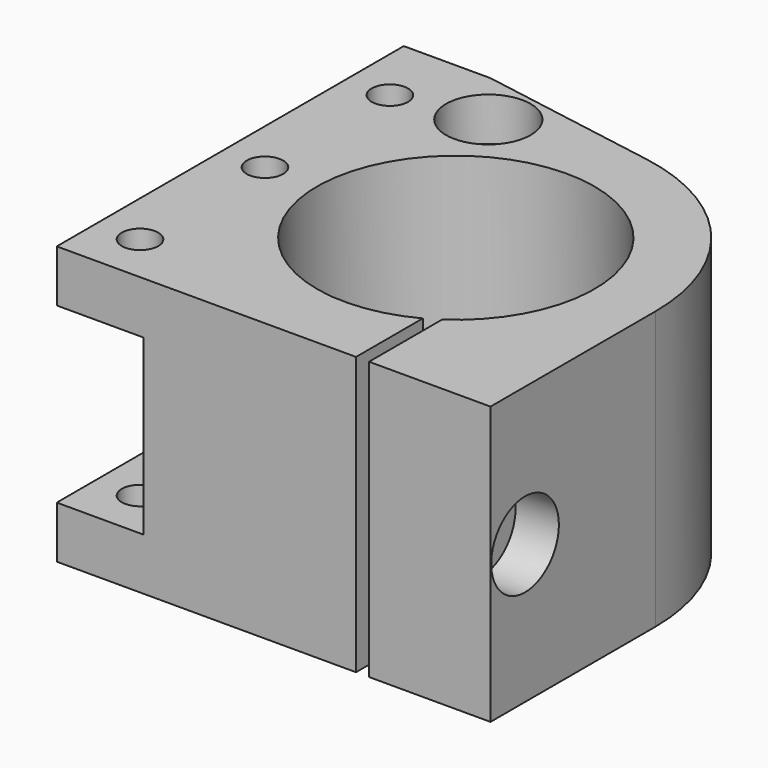
from build123d import *

# Parameters (mm, degrees)
F1_DEPTH       = 32
F2_W           = 10
F2_H           = 20
F3_DEPTH       = 50.001
F5_D           = 4.2
F5_DEPTH       = 34.15
F5_CBORE_D     = 9.75
F5_CBORE_DEPTH = 5
F5_TIP         = 1.2618073
F7_D           = 4.2
F9_D           = 5.5
F9_CBORE_D     = 9.75
F9_CBORE_DEPTH = 5
F10_R          = 2.5
F11_DEPTH      = 7


with BuildPart() as f1:
    # F0 (on Top) → F1 (new body)
    with BuildSketch(Plane.XY):
        with BuildLine():
            ThreePointArc((7.5, -14.1332940251), (-8.2623874884, 13.7015675377), (9, -13.2287565553))
            Line((9, -13.2287565553), (9, -23.749))
            Line((9, -23.749), (23, -23.749))
            Line((23, -23.749), (23, 0))
            ThreePointArc((23, 0), (17.5842402782, 14.8254677444), (3.8874353183, 22.6690945264))
            Line((3.8874353183, 22.6690945264), (-17, 26.251))
            Line((-17, 26.251), (-27, 26.251))
            Line((-27, 26.251), (-27, -23.749))
            Line((-27, -23.749), (7.5, -23.749))
            Line((7.5, -23.749), (7.5, -14.1332940251))
        make_face()
    extrude(amount=F1_DEPTH)

    # F2 (on face) → F3 (cut, through all)
    with BuildSketch(Plane.XZ.offset(23.749)):
        with Locations((-22, 16)):
            Rectangle(F2_W, F2_H)
    extrude(amount=-F3_DEPTH, mode=Mode.SUBTRACT)

    # F5
    with Locations(Plane.YZ.offset(23)):
        with Locations((-18.7706, 16)):
            CounterBoreHole(F5_D / 2, F5_CBORE_D / 2, F5_CBORE_DEPTH, depth=F5_DEPTH)
            with Locations((0, 0, -(F5_DEPTH + F5_TIP / 2))):  # 118° drill point
                Cone(0, F5_D / 2, F5_TIP, mode=Mode.SUBTRACT)

    # F7 (through all)
    with Locations(Plane.XY.offset(32)):
        with Locations((-22, 18), (-22, 0), (-22, -18)):
            Hole(F7_D / 2)

    # F9 (through all)
    with Locations(Plane.XY.offset(32)):
        with Locations((-12.1156, 19.8332124892)):
            CounterBoreHole(F9_D / 2, F9_CBORE_D / 2, F9_CBORE_DEPTH)

    # F10 (on face) → F11 (cut)
    with BuildSketch(Plane(origin=(0, 0, 0), x_dir=(1, 0, 0), z_dir=(0, 0, -1))):
        with Locations((-12.1156, -19.8332124892)):
            Circle(F10_R)
    extrude(amount=-F11_DEPTH, mode=Mode.SUBTRACT)


solid = f1.part
